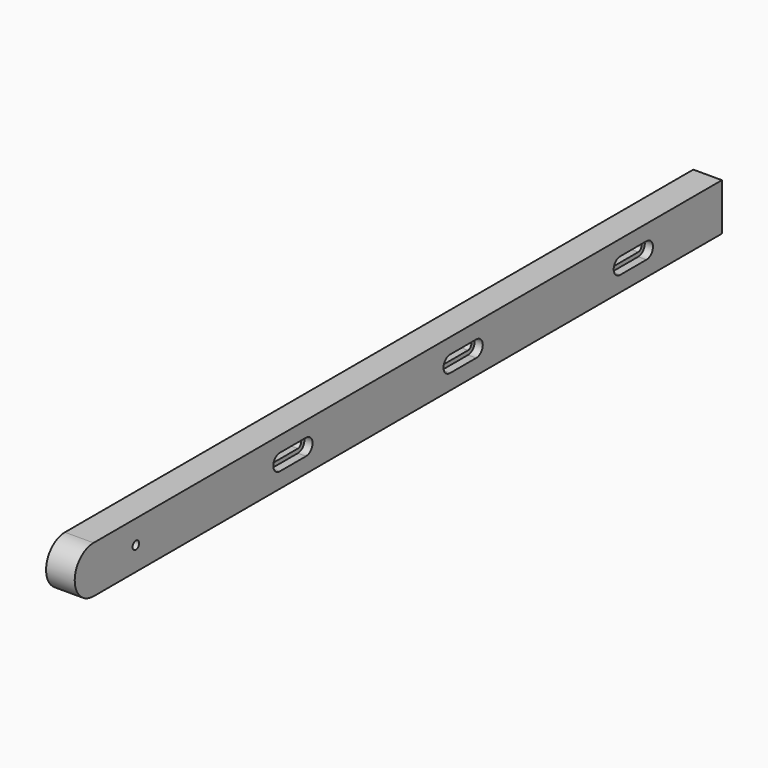
from build123d import *

# Parameters (mm, degrees)
F0_R     = 1.5875
F1_DEPTH = 11.1125
F2_DEPTH = 3.175


with BuildPart() as f1:
    # F0 (on Right) → F1 (new body)
    with BuildSketch(Plane.YZ):
        with BuildLine():
            Line((304.8, 9.128125), (0, 9.128125))
            ThreePointArc((0, 9.128125), (-9.128125, 0), (0, -9.128125))
            Line((0, -9.128125), (0, -9.140291))
            Line((0, -9.140291), (304.8, -9.140291))
            Line((304.8, -9.140291), (304.8, 9.128125))
        make_face()
        with Locations((20.528005, 0)):
            Circle(F0_R, mode=Mode.SUBTRACT)
        with BuildLine():
            Line((103.078005, -3.175), (90.378005, -3.175))
            ThreePointArc((90.378005, -3.175), (87.203005, 0), (90.378005, 3.175))
            Line((90.378005, 3.175), (103.078005, 3.175))
            ThreePointArc((103.078005, 3.175), (106.253005, 0), (103.078005, -3.175))
        make_face(mode=Mode.SUBTRACT)
        with BuildLine():
            Line((185.628005, -3.175), (172.928005, -3.175))
            ThreePointArc((172.928005, -3.175), (169.753005, 0), (172.928005, 3.175))
            Line((172.928005, 3.175), (185.628005, 3.175))
            ThreePointArc((185.628005, 3.175), (188.803005, 0), (185.628005, -3.175))
        make_face(mode=Mode.SUBTRACT)
        with BuildLine():
            Line((268.178005, -3.175), (255.478005, -3.175))
            ThreePointArc((255.478005, -3.175), (252.303005, 0), (255.478005, 3.175))
            Line((255.478005, 3.175), (268.178005, 3.175))
            ThreePointArc((268.178005, 3.175), (271.353005, 0), (268.178005, -3.175))
        make_face(mode=Mode.SUBTRACT)
        with BuildLine():
            ThreePointArc((90.378005, 3.175), (87.203005, 0), (90.378005, -3.175))
            Line((90.378005, -3.175), (103.078005, -3.175))
            ThreePointArc((103.078005, -3.175), (106.253005, 0), (103.078005, 3.175))
            Line((103.078005, 3.175), (90.378005, 3.175))
        make_face()
        with BuildLine():
            Line((103.078005, -1.5875), (90.378005, -1.5875))
            ThreePointArc((90.378005, -1.5875), (88.790505, 0), (90.378005, 1.5875))
            Line((90.378005, 1.5875), (103.078005, 1.5875))
            ThreePointArc((103.078005, 1.5875), (104.665505, 0), (103.078005, -1.5875))
        make_face(mode=Mode.SUBTRACT)
        with BuildLine():
            ThreePointArc((255.478005, 3.175), (252.303005, 0), (255.478005, -3.175))
            Line((255.478005, -3.175), (268.178005, -3.175))
            ThreePointArc((268.178005, -3.175), (271.353005, 0), (268.178005, 3.175))
            Line((268.178005, 3.175), (255.478005, 3.175))
        make_face()
        with BuildLine():
            Line((268.178005, -1.5875), (255.478005, -1.5875))
            ThreePointArc((255.478005, -1.5875), (253.890505, 0), (255.478005, 1.5875))
            Line((255.478005, 1.5875), (268.178005, 1.5875))
            ThreePointArc((268.178005, 1.5875), (269.765505, 0), (268.178005, -1.5875))
        make_face(mode=Mode.SUBTRACT)
        with BuildLine():
            ThreePointArc((172.928005, 3.175), (169.753005, 0), (172.928005, -3.175))
            Line((172.928005, -3.175), (185.628005, -3.175))
            ThreePointArc((185.628005, -3.175), (188.803005, 0), (185.628005, 3.175))
            Line((185.628005, 3.175), (172.928005, 3.175))
        make_face()
        with BuildLine():
            Line((185.628005, -1.5875), (172.928005, -1.5875))
            ThreePointArc((172.928005, -1.5875), (171.340505, 0), (172.928005, 1.5875))
            Line((172.928005, 1.5875), (185.628005, 1.5875))
            ThreePointArc((185.628005, 1.5875), (187.215505, 0), (185.628005, -1.5875))
        make_face(mode=Mode.SUBTRACT)
    extrude(amount=-F1_DEPTH)

    # F0 (on Right) → F2 (cut)
    with BuildSketch(Plane.YZ):
        with BuildLine():
            ThreePointArc((90.378005, 3.175), (87.203005, 0), (90.378005, -3.175))
            Line((90.378005, -3.175), (103.078005, -3.175))
            ThreePointArc((103.078005, -3.175), (106.253005, 0), (103.078005, 3.175))
            Line((103.078005, 3.175), (90.378005, 3.175))
        make_face()
        with BuildLine():
            Line((103.078005, -1.5875), (90.378005, -1.5875))
            ThreePointArc((90.378005, -1.5875), (88.790505, 0), (90.378005, 1.5875))
            Line((90.378005, 1.5875), (103.078005, 1.5875))
            ThreePointArc((103.078005, 1.5875), (104.665505, 0), (103.078005, -1.5875))
        make_face(mode=Mode.SUBTRACT)
        with BuildLine():
            ThreePointArc((172.928005, 3.175), (169.753005, 0), (172.928005, -3.175))
            Line((172.928005, -3.175), (185.628005, -3.175))
            ThreePointArc((185.628005, -3.175), (188.803005, 0), (185.628005, 3.175))
            Line((185.628005, 3.175), (172.928005, 3.175))
        make_face()
        with BuildLine():
            Line((185.628005, -1.5875), (172.928005, -1.5875))
            ThreePointArc((172.928005, -1.5875), (171.340505, 0), (172.928005, 1.5875))
            Line((172.928005, 1.5875), (185.628005, 1.5875))
            ThreePointArc((185.628005, 1.5875), (187.215505, 0), (185.628005, -1.5875))
        make_face(mode=Mode.SUBTRACT)
        with BuildLine():
            ThreePointArc((255.478005, 3.175), (252.303005, 0), (255.478005, -3.175))
            Line((255.478005, -3.175), (268.178005, -3.175))
            ThreePointArc((268.178005, -3.175), (271.353005, 0), (268.178005, 3.175))
            Line((268.178005, 3.175), (255.478005, 3.175))
        make_face()
        with BuildLine():
            Line((268.178005, -1.5875), (255.478005, -1.5875))
            ThreePointArc((255.478005, -1.5875), (253.890505, 0), (255.478005, 1.5875))
            Line((255.478005, 1.5875), (268.178005, 1.5875))
            ThreePointArc((268.178005, 1.5875), (269.765505, 0), (268.178005, -1.5875))
        make_face(mode=Mode.SUBTRACT)
    extrude(amount=-F2_DEPTH, mode=Mode.SUBTRACT)


solid = f1.part
